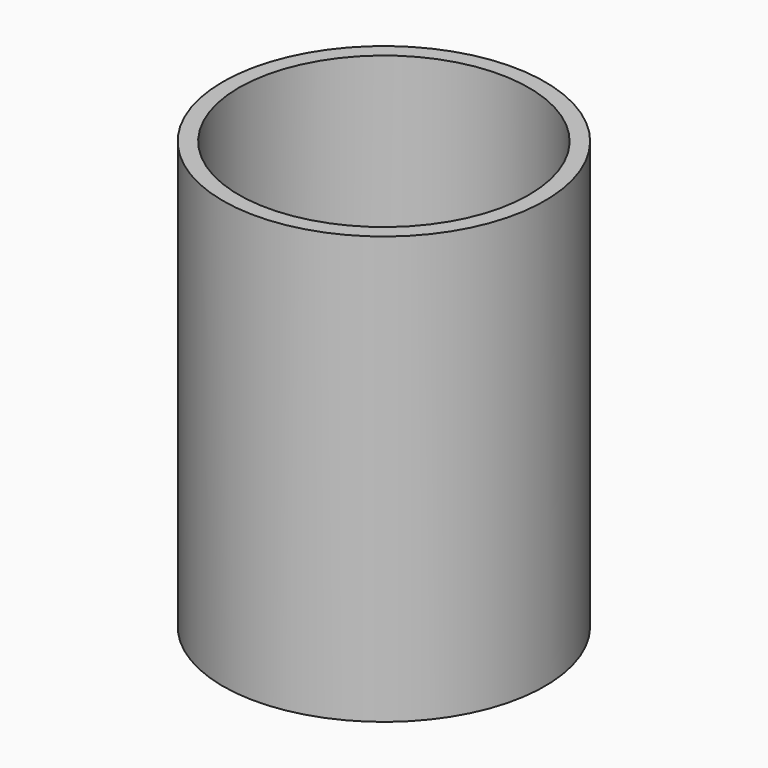
from build123d import *

# Parameters (mm, degrees)
F0_W = 45.3278720379
F0_H = 128.5245977342
F2_T = 5


with BuildPart() as f1:
    # F0 (on Front) → F1 (revolve)
    with BuildSketch(Plane.XZ):
        with Locations((-22.6639360189, -8.1762317568)):
            Rectangle(F0_W, F0_H)
    revolve(axis=Axis((0, 0, -8.1762317568), (0, 0, -1)))

    # F2
    f2_openings = [f1.faces().sort_by_distance(p)[0] for p in [
        (0, 0, 56.086067),
    ]]
    offset(amount=F2_T, openings=f2_openings, kind=Kind.INTERSECTION)


solid = f1.part
